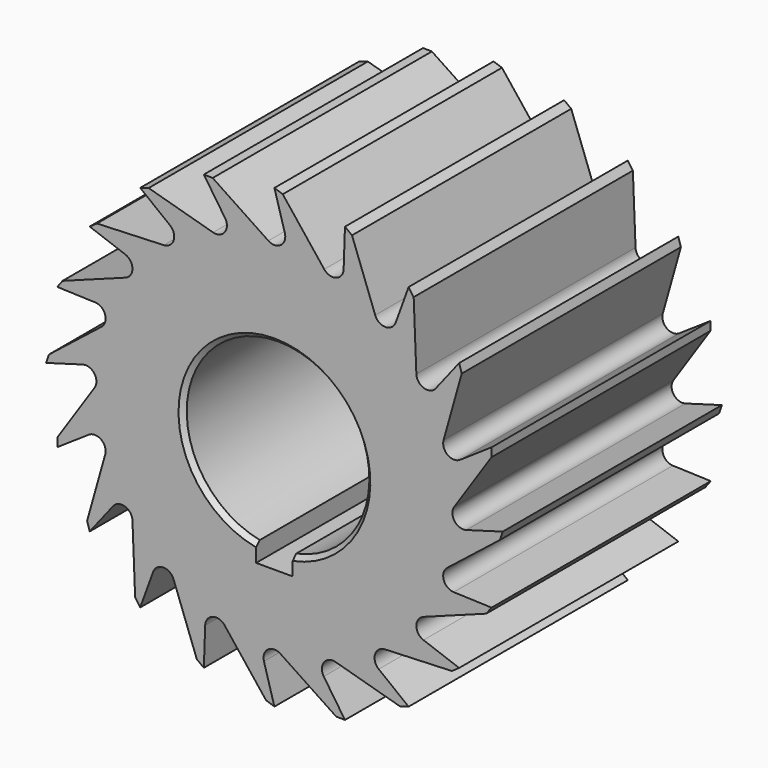
from build123d import *

# Parameters (mm, degrees)
F1_DEPTH = 60
F2_SIZE  = 1


with BuildPart() as f1:
    # F0 (on Front) → F1 (new body)
    with BuildSketch(Plane.XZ):
        with BuildLine():
            Line((1.82927, 49.370132), (0, 50))
            Line((0, 50), (2.288286, 42.019797))
            ThreePointArc((2.288286, 42.019797), (1.404131, 39.441349), (-1.321078, 39.383352))
            Line((-1.321078, 39.383352), (-13.51647, 47.519061))
            Line((-13.51647, 47.519061), (-15.45085, 47.552826))
            Line((-15.45085, 47.552826), (-10.808542, 40.670321))
            ThreePointArc((-10.808542, 40.670321), (-10.852639, 37.944852), (-13.426545, 37.047558))
            Line((-13.426545, 37.047558), (-27.539125, 41.016494))
            Line((-27.539125, 41.016494), (-29.389263, 40.45085))
            Line((-29.389263, 40.45085), (-22.847355, 35.339751))
            ThreePointArc((-22.847355, 35.339751), (-22.047077, 32.734049), (-24.217728, 31.085291))
            Line((-24.217728, 31.085291), (-38.866057, 30.498946))
            Line((-38.866057, 30.498946), (-40.45085, 29.389263))
            Line((-40.45085, 29.389263), (-32.649709, 26.54988))
            ThreePointArc((-32.649709, 26.54988), (-31.083394, 24.319009), (-32.638311, 22.080179))
            Line((-32.638311, 22.080179), (-46.38851, 16.995949))
            Line((-46.38851, 16.995949), (-47.552826, 15.45085))
            Line((-47.552826, 15.45085), (-39.256083, 15.161121))
            ThreePointArc((-39.256083, 15.161121), (-37.077051, 13.523455), (-37.864029, 10.913705))
            Line((-37.864029, 10.913705), (-49.370132, 1.82927))
            Line((-49.370132, 1.82927), (-50, 0))
            Line((-50, 0), (-42.019797, 2.288286))
            ThreePointArc((-42.019797, 2.288286), (-39.441349, 1.404131), (-39.383352, -1.321078))
            Line((-39.383352, -1.321078), (-47.519061, -13.51647))
            Line((-47.519061, -13.51647), (-47.552826, -15.45085))
            Line((-47.552826, -15.45085), (-40.670321, -10.808542))
            ThreePointArc((-40.670321, -10.808542), (-37.944852, -10.852639), (-37.047558, -13.426545))
            Line((-37.047558, -13.426545), (-41.016494, -27.539125))
            Line((-41.016494, -27.539125), (-40.45085, -29.389263))
            Line((-40.45085, -29.389263), (-35.339751, -22.847355))
            ThreePointArc((-35.339751, -22.847355), (-32.734049, -22.047077), (-31.085291, -24.217728))
            Line((-31.085291, -24.217728), (-30.498946, -38.866057))
            Line((-30.498946, -38.866057), (-29.389263, -40.45085))
            Line((-29.389263, -40.45085), (-26.54988, -32.649709))
            ThreePointArc((-26.54988, -32.649709), (-24.319009, -31.083394), (-22.080179, -32.638311))
            Line((-22.080179, -32.638311), (-16.995949, -46.38851))
            Line((-16.995949, -46.38851), (-15.45085, -47.552826))
            Line((-15.45085, -47.552826), (-15.161121, -39.256083))
            ThreePointArc((-15.161121, -39.256083), (-13.523455, -37.077051), (-10.913705, -37.864029))
            Line((-10.913705, -37.864029), (-1.82927, -49.370132))
            Line((-1.82927, -49.370132), (0, -50))
            Line((0, -50), (-2.288286, -42.019797))
            ThreePointArc((-2.288286, -42.019797), (-1.404131, -39.441349), (1.321078, -39.383352))
            Line((1.321078, -39.383352), (13.51647, -47.519061))
            Line((13.51647, -47.519061), (15.45085, -47.552826))
            Line((15.45085, -47.552826), (10.808542, -40.670321))
            ThreePointArc((10.808542, -40.670321), (10.852639, -37.944852), (13.426545, -37.047558))
            Line((13.426545, -37.047558), (27.539125, -41.016494))
            Line((27.539125, -41.016494), (29.389263, -40.45085))
            Line((29.389263, -40.45085), (22.847355, -35.339751))
            ThreePointArc((22.847355, -35.339751), (22.047077, -32.734049), (24.217728, -31.085291))
            Line((24.217728, -31.085291), (38.866057, -30.498946))
            Line((38.866057, -30.498946), (40.45085, -29.389263))
            Line((40.45085, -29.389263), (32.649709, -26.54988))
            ThreePointArc((32.649709, -26.54988), (31.083394, -24.319009), (32.638311, -22.080179))
            Line((32.638311, -22.080179), (46.38851, -16.995949))
            Line((46.38851, -16.995949), (47.552826, -15.45085))
            Line((47.552826, -15.45085), (39.256083, -15.161121))
            ThreePointArc((39.256083, -15.161121), (37.077051, -13.523455), (37.864029, -10.913705))
            Line((37.864029, -10.913705), (49.370132, -1.82927))
            Line((49.370132, -1.82927), (50, 0))
            Line((50, 0), (42.019797, -2.288286))
            ThreePointArc((42.019797, -2.288286), (39.441349, -1.404131), (39.383352, 1.321078))
            Line((39.383352, 1.321078), (47.519061, 13.51647))
            Line((47.519061, 13.51647), (47.552826, 15.45085))
            Line((47.552826, 15.45085), (40.670321, 10.808542))
            ThreePointArc((40.670321, 10.808542), (37.944852, 10.852639), (37.047558, 13.426545))
            Line((37.047558, 13.426545), (41.016494, 27.539125))
            Line((41.016494, 27.539125), (40.45085, 29.389263))
            Line((40.45085, 29.389263), (35.339751, 22.847355))
            ThreePointArc((35.339751, 22.847355), (32.734049, 22.047077), (31.085291, 24.217728))
            Line((31.085291, 24.217728), (30.498946, 38.866057))
            Line((30.498946, 38.866057), (29.389263, 40.45085))
            Line((29.389263, 40.45085), (26.54988, 32.649709))
            ThreePointArc((26.54988, 32.649709), (24.319009, 31.083394), (22.080179, 32.638311))
            Line((22.080179, 32.638311), (16.995949, 46.38851))
            Line((16.995949, 46.38851), (15.45085, 47.552826))
            Line((15.45085, 47.552826), (15.161121, 39.256083))
            ThreePointArc((15.161121, 39.256083), (13.523455, 37.077051), (10.913705, 37.864029))
            Line((10.913705, 37.864029), (1.82927, 49.370132))
        make_face()
        with BuildLine():
            ThreePointArc((-4, -19.595918), (0, 20), (4, -19.595918))
            Line((4, -19.595918), (4, -23.595918))
            Line((4, -23.595918), (-4, -23.595918))
            Line((-4, -23.595918), (-4, -19.595918))
        make_face(mode=Mode.SUBTRACT)
    extrude(amount=F1_DEPTH)

    # F2
    f2_edges = [f1.edges().sort_by_distance(p)[0] for p in [
        (0, -60, 20),
        (0, 0, 20),
    ]]
    chamfer(f2_edges, length=F2_SIZE)


solid = f1.part
